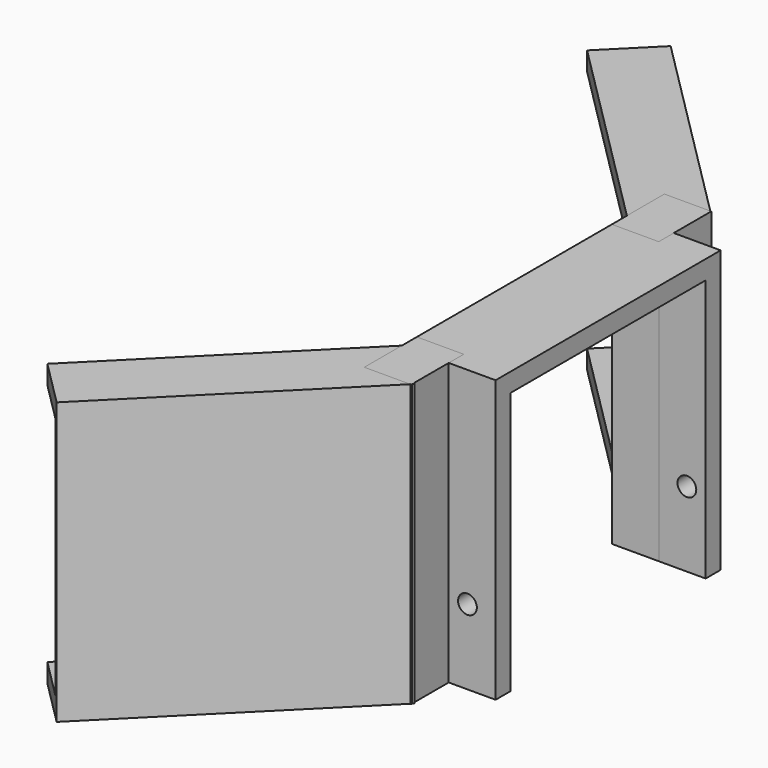
from build123d import *

# Parameters (mm, degrees)
CYLINDER_R             = 1
CYLINDER_DEPTH         = 10
CYLINDER_ROLL_ANGLE    = 90
CYLINDER001_R          = 1
CYLINDER001_DEPTH      = 10
CYLINDER001_ROLL_ANGLE = 90
BOX001_W               = 45
BOX001_H               = 26
BOX001_DEPTH           = 29
BOX_W                  = 10
BOX_H                  = 30
BOX_DEPTH              = 30
BOX005_W               = 6
BOX005_H               = 31
BOX005_DEPTH           = 26
BOX005_PLACEMENT_ANGLE = -45
BOX003_W               = 7
BOX003_H               = 30
BOX003_DEPTH           = 30
BOX003_PLACEMENT_ANGLE = -45
BOX004_W               = 8
BOX004_H               = 34
BOX004_DEPTH           = 26
BOX004_PLACEMENT_ANGLE = 45
BOX002_W               = 7
BOX002_H               = 30
BOX002_DEPTH           = 30
BOX002_PLACEMENT_ANGLE = 45
BOX007_W               = 5
BOX007_H               = 7
BOX007_DEPTH           = 30
BOX006_W               = 5
BOX006_H               = 7
BOX006_DEPTH           = 30


with BuildPart() as cylinder:
    # Cylinder → Cylinder (new body)
    with BuildSketch(Plane.XY):
        Circle(CYLINDER_R)
    extrude(amount=CYLINDER_DEPTH)


with BuildPart() as cylinder_1:
    # Cylinder roll: moved
    add(cylinder.part.rotate(Axis((0, 0, 0), (1, 0, 0)), CYLINDER_ROLL_ANGLE))


with BuildPart() as cylinder_2:
    # Cylinder placement: moved
    add(cylinder_1.part.moved(Location((8, 35, 8))))


with BuildPart() as cylinder001:
    # Cylinder001 → Cylinder001 (new body)
    with BuildSketch(Plane.XY):
        Circle(CYLINDER001_R)
    extrude(amount=CYLINDER001_DEPTH)


with BuildPart() as cylinder001_1:
    # Cylinder001 roll: moved
    add(cylinder001.part.rotate(Axis((0, 0, 0), (1, 0, 0)), CYLINDER001_ROLL_ANGLE))


with BuildPart() as cylinder001_2:
    # Cylinder001 placement: moved
    add(cylinder001_1.part.moved(Location((7, 6, 8))))


with BuildPart() as cube001:
    # Box001 → Box001 (new body)
    with BuildSketch(Plane(origin=(-6, 2, -1), x_dir=(1, 0, 0), z_dir=(0, 0, 1))):
        with Locations((22.5, 13)):
            Rectangle(BOX001_W, BOX001_H)
    extrude(amount=BOX001_DEPTH)


with BuildPart() as cut002:
    # Box → Box (new body)
    with BuildSketch(Plane.XY):
        with Locations((5, 15)):
            Rectangle(BOX_W, BOX_H)
    extrude(amount=BOX_DEPTH)

    # Cut: cut Cube001
    add(cube001.part, mode=Mode.SUBTRACT)

    # Cut001: cut Cylinder001
    add(cylinder001_2.part, mode=Mode.SUBTRACT)

    # Cut002: cut Cylinder
    add(cylinder_2.part, mode=Mode.SUBTRACT)


with BuildPart() as cube005:
    # Box005 → Box005 (new body)
    with BuildSketch(Plane.XY):
        with Locations((3, 15.5)):
            Rectangle(BOX005_W, BOX005_H)
    extrude(amount=BOX005_DEPTH)


with BuildPart() as cube005_1:
    # Box005 placement: moved
    add(cube005.part.moved(Location((-22, -22, 2))).rotate(Axis((-22, -22, 2), (0, 0, 1)), BOX005_PLACEMENT_ANGLE))


with BuildPart() as cut003:
    # Box003 → Box003 (new body)
    with BuildSketch(Plane.XY):
        with Locations((3.5, 15)):
            Rectangle(BOX003_W, BOX003_H)
    extrude(amount=BOX003_DEPTH)


with BuildPart() as cut003_1:
    # Box003 placement: moved
    add(cut003.part.moved(Location((-21, -21, 0))).rotate(Axis((-21, -21, 0), (0, 0, 1)), BOX003_PLACEMENT_ANGLE))

    # Cut003: cut Cube005
    add(cube005_1.part, mode=Mode.SUBTRACT)


with BuildPart() as cube004:
    # Box004 → Box004 (new body)
    with BuildSketch(Plane.XY):
        with Locations((4, 17)):
            Rectangle(BOX004_W, BOX004_H)
    extrude(amount=BOX004_DEPTH)


with BuildPart() as cube004_1:
    # Box004 placement: moved
    add(cube004.part.moved(Location((-2, 29, 2))).rotate(Axis((-2, 29, 2), (0, 0, 1)), BOX004_PLACEMENT_ANGLE))


with BuildPart() as cut004:
    # Box002 → Box002 (new body)
    with BuildSketch(Plane.XY):
        with Locations((3.5, 15)):
            Rectangle(BOX002_W, BOX002_H)
    extrude(amount=BOX002_DEPTH)


with BuildPart() as cut004_1:
    # Box002 placement: moved
    add(cut004.part.moved(Location((0, 30, 0))).rotate(Axis((0, 30, 0), (0, 0, 1)), BOX002_PLACEMENT_ANGLE))

    # Cut004: cut Cube004
    add(cube004_1.part, mode=Mode.SUBTRACT)


with BuildPart() as cut005:
    # Box007 → Box007 (new body)
    with BuildSketch(Plane(origin=(0, 28, 0), x_dir=(1, 0, 0), z_dir=(0, 0, 1))):
        with Locations((2.5, 3.5)):
            Rectangle(BOX007_W, BOX007_H)
    extrude(amount=BOX007_DEPTH)

    # Cut005: cut Cube004
    add(cube004_1.part, mode=Mode.SUBTRACT)


with BuildPart() as cut006:
    # Box006 → Box006 (new body)
    with BuildSketch(Plane(origin=(0, -5, 0), x_dir=(1, 0, 0), z_dir=(0, 0, 1))):
        with Locations((2.5, 3.5)):
            Rectangle(BOX006_W, BOX006_H)
    extrude(amount=BOX006_DEPTH)

    # Cut006: cut Cube005
    add(cube005_1.part, mode=Mode.SUBTRACT)


solid = Compound([cut002.part, cut003_1.part, cut004_1.part, cut005.part, cut006.part])
